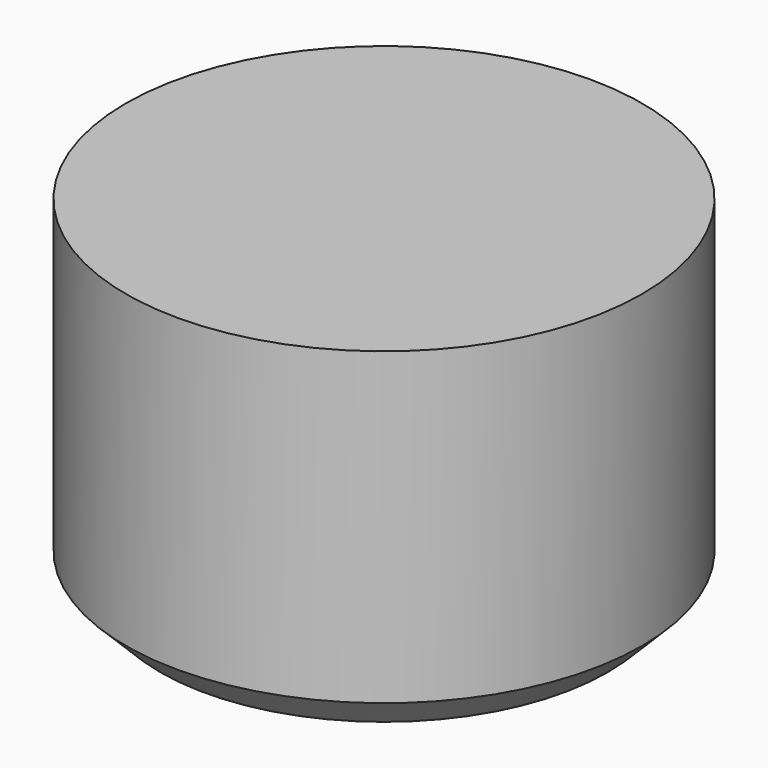
from build123d import *

# Parameters (mm, degrees)
F0_R     = 2.25
F0_R_2   = 1.5
F1_DEPTH = 3
F2_START = -0.5
F2_DEPTH = 2.5
F3_SIZE  = 0.3


with BuildPart() as f1:
    # F0 (on Top) → F1 (new body)
    with BuildSketch(Plane.XY):
        Circle(F0_R)
        Circle(F0_R_2, mode=Mode.SUBTRACT)
        Circle(F0_R_2)
    extrude(amount=-F1_DEPTH)

    # F0 (on Top) → F2 (cut)
    with BuildSketch(Plane.XY.offset(F2_START)):
        Circle(F0_R_2)
    extrude(amount=-F2_DEPTH, mode=Mode.SUBTRACT)

    # F3
    f3_edges = [f1.edges().sort_by_distance(p)[0] for p in [
        (-2.25, 0, -3),
        (-1.5, 0, -3),
    ]]
    chamfer(f3_edges, length=F3_SIZE)


solid = f1.part
